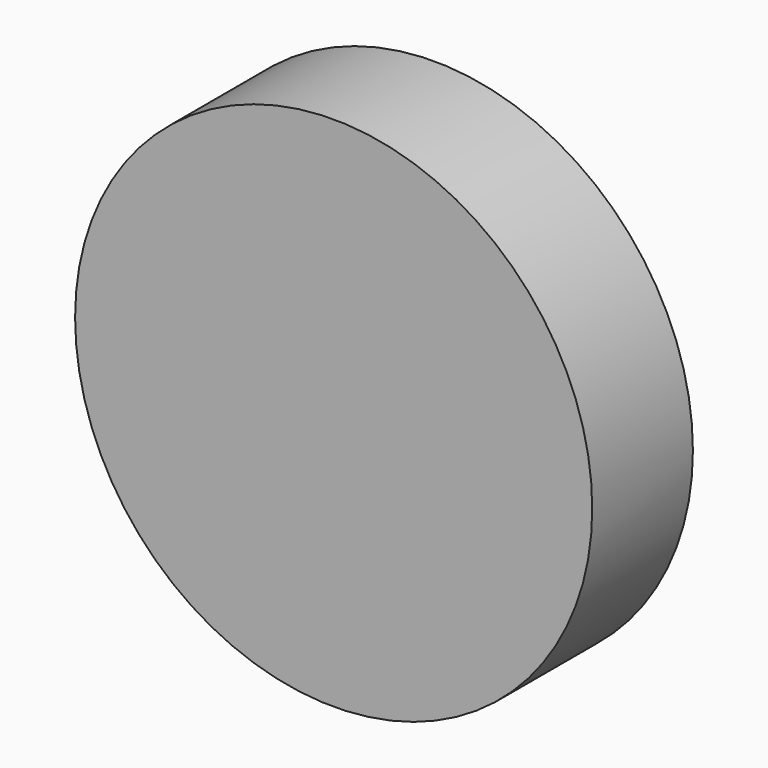
from build123d import *

# Parameters (mm, degrees)
F0_R       = 32.7680285352
F1_DEPTH   = 4.318
F0_R_2     = 45.4115462629
F1_FACE_R  = 32.7680285352
F1_FACE1_R = 32.7680285352
F2_DEPTH   = 22.098


with BuildPart() as f1:
    # F0 (on Front) → F1 (new body)
    with BuildSketch(Plane.XZ):
        Circle(F0_R)
    extrude(amount=-F1_DEPTH)

    # F0 (on Front) + F1_face (on face) + F1_face1 (on face) → F2 (join)
    with BuildSketch(Plane.XZ):
        Circle(F0_R_2)
        Circle(F0_R, mode=Mode.SUBTRACT)
    with BuildSketch(Plane(origin=(0, 4.318, 0), x_dir=(1, 0, 0), z_dir=(0, 1, 0))):
        Circle(F1_FACE_R)
    with BuildSketch(Plane.XZ):
        Circle(F1_FACE1_R)
    extrude(amount=-F2_DEPTH, dir=(0, -1, 0))


solid = f1.part
